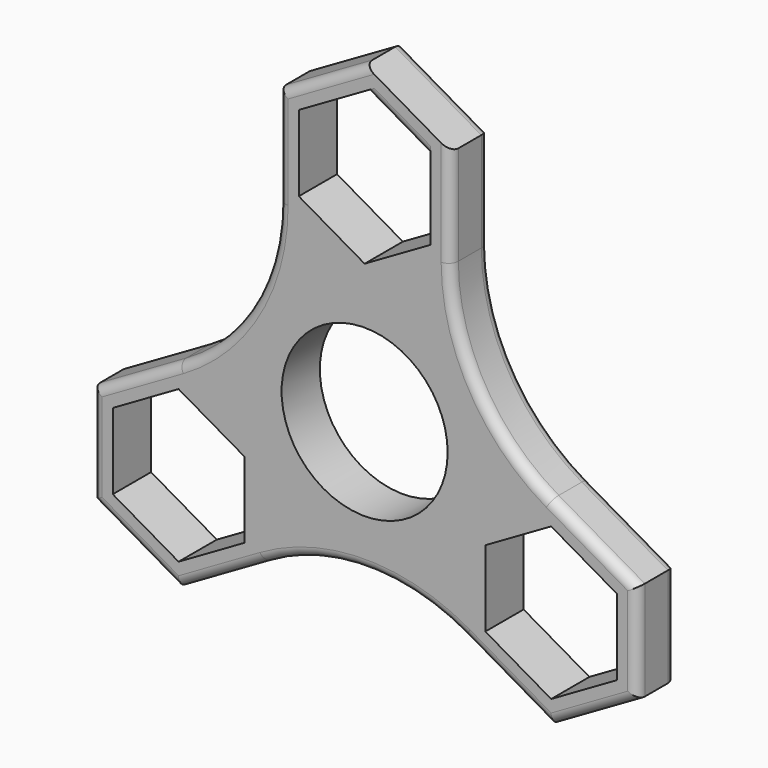
from build123d import *

# Parameters (mm, degrees)
F0_R     = 14.2875
F0_R_2   = 11.0236
F1_DEPTH = 6.35
F2_R     = 1.27


with BuildPart() as f1:
    # F0 (on Front) → F1 (new body)
    with BuildSketch(Plane.XZ):
        Polygon((-11.43, 35.174114), (-11.43, 21.975886), (0, 15.376773), (11.43, 21.975886), (11.43, 35.174114), (0, 41.773227), align=None)
        Polygon((0, 18.485689), (-8.7376, 23.530344), (-8.7376, 33.619656), (0, 38.664311), (8.7376, 33.619656), (8.7376, 23.530344), align=None, mode=Mode.SUBTRACT)
        with BuildLine():
            Line((0, 15.376773), (-11.43, 21.975886))
            ThreePointArc((-11.43, 21.975886), (-14.966436, 8.660036), (-24.701385, -1.089272))
            Line((-24.701385, -1.089272), (-13.271385, -7.688386))
            Line((-13.271385, -7.688386), (-13.271385, -20.886613))
            ThreePointArc((-13.271385, -20.886613), (0.028698, -17.291331), (13.339321, -20.84739))
            Line((13.339321, -20.84739), (13.339321, -7.649163))
            Line((13.339321, -7.649163), (24.769321, -1.050049))
            ThreePointArc((24.769321, -1.050049), (15.023862, 8.681056), (11.43, 21.975886))
            Line((11.43, 21.975886), (0, 15.376773))
        make_face()
        Circle(F0_R, mode=Mode.SUBTRACT)
        Polygon((-13.271385, -7.688386), (-24.701385, -1.089272), (-36.131385, -7.688386), (-36.131385, -20.886613), (-24.701385, -27.485727), (-13.271385, -20.886613), align=None)
        Polygon((-24.701385, -24.376811), (-33.438985, -19.332155), (-33.438985, -9.242844), (-24.701385, -4.198188), (-15.963785, -9.242844), (-15.963785, -19.332155), align=None, mode=Mode.SUBTRACT)
        Polygon((36.199321, -7.649163), (24.769321, -1.050049), (13.339321, -7.649163), (13.339321, -20.84739), (24.769321, -27.446504), (36.199321, -20.84739), align=None)
        Polygon((33.506921, -9.203621), (33.506921, -19.292932), (24.769321, -24.337588), (16.031721, -19.292932), (16.031721, -9.203621), (24.769321, -4.158965), align=None, mode=Mode.SUBTRACT)
        Circle(F0_R)
        Circle(F0_R_2, mode=Mode.SUBTRACT)
    extrude(amount=F1_DEPTH)

    # F2
    f2_edges = [f1.edges().sort_by_distance(p)[0] for p in [
        (-5.715, -6.35, 38.47367),
        (4.3688, -6.35, 36.141984),
        (11.43, -6.35, 28.575),
        (-11.43, -6.35, 28.575),
        (30.484321, -6.35, -4.349606),
        (36.199321, -6.35, -14.248276),
        (30.484321, -6.35, -24.146947),
        (19.054321, -6.35, -24.146947),
        (-18.986385, -6.35, -24.18617),
        (-30.416385, -6.35, -24.18617),
        (-36.131385, -6.35, -14.2875),
        (-30.416385, -6.35, -4.388829),
        (-11.43, 0, 28.575),
        (-5.715, 0, 38.47367),
        (5.715, 0, 38.47367),
        (11.43, 0, 28.575),
        (30.484321, 0, -4.349606),
        (36.199321, 0, -14.248276),
        (30.484321, 0, -24.146947),
        (19.054321, 0, -24.146947),
        (-18.986385, 0, -24.18617),
        (-30.416385, 0, -24.18617),
        (-36.131385, 0, -14.2875),
        (-30.416385, 0, -4.388829),
    ]]
    fillet(f2_edges, radius=F2_R)


solid = f1.part
